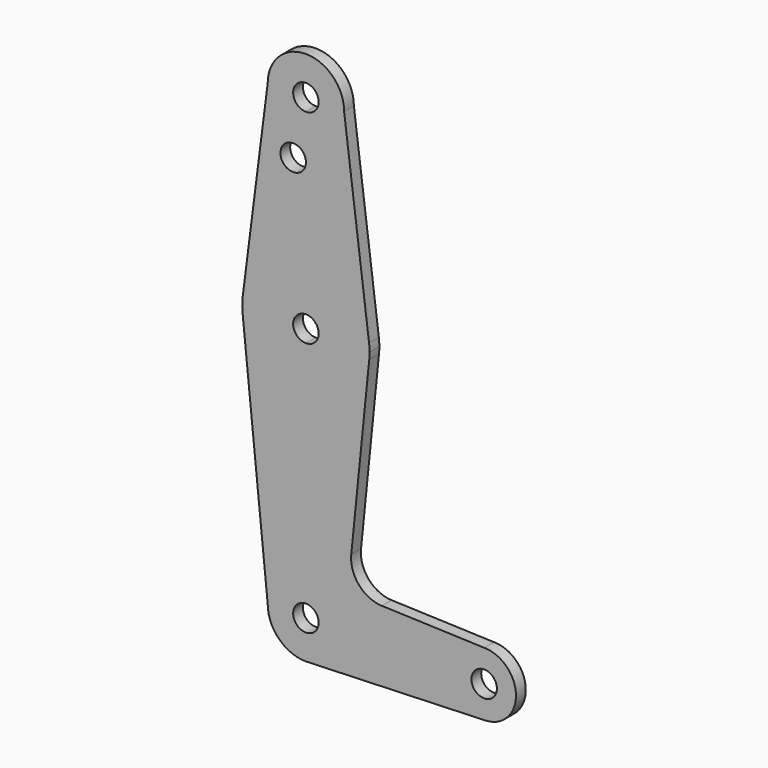
from build123d import *

# Parameters (mm, degrees)
F0_R     = 3.175
F1_DEPTH = 3.048


with BuildPart() as f1:
    # F0 (on Front) → F1 (new body)
    with BuildSketch(Plane.XZ):
        with BuildLine():
            ThreePointArc((3.175, 0), (-2.2450640303, -2.2450640303), (0, 3.175))
            Line((0, 3.175), (0, 9.525))
            ThreePointArc((0, 9.525), (-6.7351920908, 6.7351920908), (-9.525, 0))
            ThreePointArc((-9.525, 0), (-6.7351920908, -6.7351920908), (0, -9.525))
            Line((0, -9.525), (0.6773435479, -9.500885786))
            ThreePointArc((0.6773435479, -9.500885786), (6.9705567315, -6.4912990883), (9.525, 0))
            Line((9.525, 0), (3.175, 0))
        make_face()
        with BuildLine():
            ThreePointArc((-9.525, 0), (-6.7351920908, 6.7351920908), (0, 9.525))
            Line((0, 9.525), (0, 47.625))
            ThreePointArc((0, 47.625), (-10.644756084, 51.722700101), (-15.7942028036, 61.9003804205))
            Line((-15.7942028036, 61.9003804205), (-9.525, 0))
        make_face()
        with BuildLine():
            Line((0, 47.625), (0, 9.525))
            ThreePointArc((0, 9.525), (6.7351920908, 6.7351920908), (9.525, 0))
            Line((9.525, 0), (36.5125, 0))
            ThreePointArc((36.5125, 0), (38.8373399243, 5.6126600757), (44.45, 7.9375))
            Line((44.45, 7.9375), (18.9329889534, 8.8488218231))
            ThreePointArc((18.9329889534, 8.8488218231), (13.22446249, 11.5691841219), (11.3070069952, 17.5950458731))
            Line((11.3070069952, 17.5950458731), (15.7942028036, 61.9003804205))
            ThreePointArc((15.7942028036, 61.9003804205), (10.644756084, 51.722700101), (0, 47.625))
        make_face()
        with BuildLine():
            Line((36.5125, 0), (9.525, 0))
            ThreePointArc((9.525, 0), (6.9705567315, -6.4912990883), (0.6773435479, -9.500885786))
            Line((0.6773435479, -9.500885786), (44.7324052746, -7.9324746146))
            ThreePointArc((44.7324052746, -7.9324746146), (38.9380895153, -5.7116327839), (36.5125, 0))
        make_face()
        with BuildLine():
            ThreePointArc((-15.7942028036, 61.9003804205), (-10.644756084, 51.722700101), (0, 47.625))
            Line((0, 47.625), (0, 60.325))
            ThreePointArc((0, 60.325), (-3.175, 63.5), (0, 66.675))
            Line((0, 66.675), (0, 79.375))
            ThreePointArc((0, 79.375), (-10.4912828548, 75.4142187767), (-15.7474569047, 65.5082893304))
            ThreePointArc((-15.7474569047, 65.5082893304), (-15.873667691, 63.7056672947), (-15.7942028036, 61.9003804205))
        make_face()
        with BuildLine():
            Line((0, 60.325), (0, 47.625))
            ThreePointArc((0, 47.625), (10.644756084, 51.722700101), (15.7942028036, 61.9003804205))
            ThreePointArc((15.7942028036, 61.9003804205), (15.8547878338, 62.6991705884), (15.875, 63.5))
            ThreePointArc((15.875, 63.5), (15.8430821396, 64.5061676396), (15.7474569047, 65.5082893304))
            ThreePointArc((15.7474569047, 65.5082893304), (10.4912828548, 75.4142187767), (0, 79.375))
            Line((0, 79.375), (0, 66.675))
            ThreePointArc((0, 66.675), (2.2450640303, 65.7450640303), (3.175, 63.5))
            ThreePointArc((3.175, 63.5), (2.2450640303, 61.2549359697), (0, 60.325))
        make_face()
        with BuildLine():
            ThreePointArc((44.45, 7.9375), (38.8373399243, 5.6126600757), (36.5125, 0))
            ThreePointArc((36.5125, 0), (38.9380895153, -5.7116327839), (44.7324052746, -7.9324746146))
            ThreePointArc((44.7324052746, -7.9324746146), (50.1616327839, -5.5119104847), (52.3875, 0))
            ThreePointArc((52.3875, 0), (50.0626600757, 5.6126600757), (44.45, 7.9375))
        make_face()
        with BuildLine():
            ThreePointArc((47.625, 0), (44.45, -3.175), (41.275, 0))
            ThreePointArc((41.275, 0), (44.45, 3.175), (47.625, 0))
        make_face(mode=Mode.SUBTRACT)
        with BuildLine():
            ThreePointArc((0, -9.525), (0.3388863295, -9.5189695375), (0.6773435479, -9.500885786))
            Line((0.6773435479, -9.500885786), (0, -9.525))
        make_face()
        with BuildLine():
            Line((-9.525, 114.3), (-15.7474569047, 65.5082893304))
            ThreePointArc((-15.7474569047, 65.5082893304), (-10.4912828548, 75.4142187767), (0, 79.375))
            Line((0, 79.375), (0, 100.0252))
            Line((0, 100.0252), (0, 104.775))
            ThreePointArc((0, 104.775), (-6.7351920908, 107.5648079092), (-9.525, 114.3))
        make_face()
        with Locations((-3.175, 100.0252)):
            Circle(F0_R, mode=Mode.SUBTRACT)
        with BuildLine():
            Line((0, 100.0252), (0, 79.375))
            ThreePointArc((0, 79.375), (10.4912828548, 75.4142187767), (15.7474569047, 65.5082893304))
            Line((15.7474569047, 65.5082893304), (9.525, 114.3))
            ThreePointArc((9.525, 114.3), (6.7351920908, 107.5648079092), (0, 104.775))
            Line((0, 104.775), (0, 100.0252))
        make_face()
        with BuildLine():
            ThreePointArc((9.525, 114.3), (0, 123.825), (-9.525, 114.3))
            ThreePointArc((-9.525, 114.3), (-6.7351920908, 107.5648079092), (0, 104.775))
            ThreePointArc((0, 104.775), (6.7351920908, 107.5648079092), (9.525, 114.3))
        make_face()
        with BuildLine():
            ThreePointArc((3.175, 114.3), (2.2450640303, 112.0549359697), (0, 111.125))
            ThreePointArc((0, 111.125), (-2.2450640303, 116.5450640303), (3.175, 114.3))
        make_face(mode=Mode.SUBTRACT)
        with BuildLine():
            Line((0, 9.525), (0, 3.175))
            ThreePointArc((0, 3.175), (2.2450640303, 2.2450640303), (3.175, 0))
            Line((3.175, 0), (9.525, 0))
            ThreePointArc((9.525, 0), (6.7351920908, 6.7351920908), (0, 9.525))
        make_face()
    extrude(amount=F1_DEPTH)


solid = f1.part
